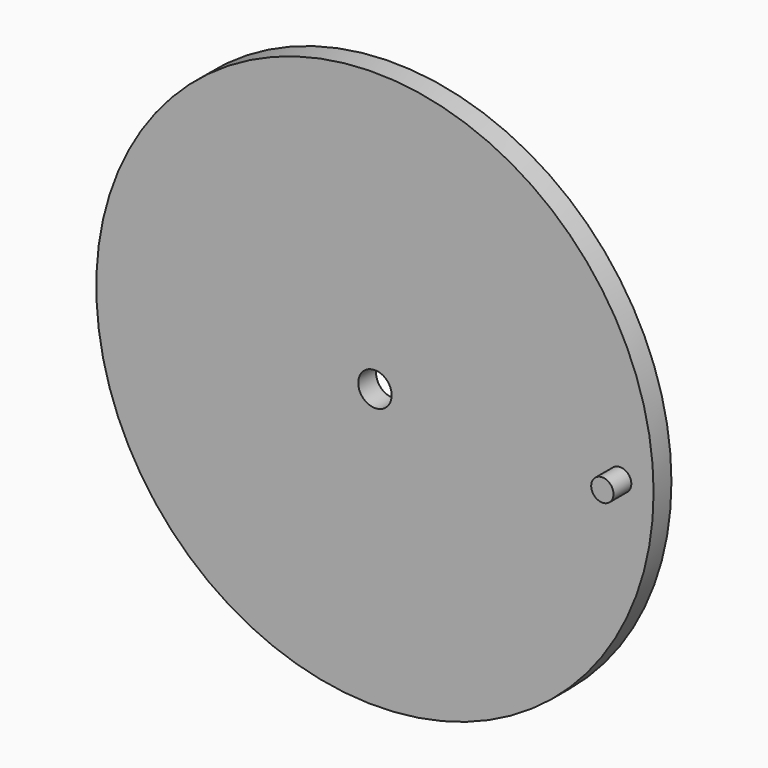
from build123d import *

# Parameters (mm, degrees)
F0_R     = 125
F0_R_2   = 7.5
F1_DEPTH = 10
F2_R     = 5
F3_DEPTH = 10


with BuildPart() as f1:
    # F0 (on Front) → F1 (new body)
    with BuildSketch(Plane.XZ):
        Circle(F0_R)
        Circle(F0_R_2, mode=Mode.SUBTRACT)
    extrude(amount=F1_DEPTH)

    # F2 (on face) → F3 (join)
    with BuildSketch(Plane.XZ.offset(10)):
        with Locations((110, 0)):
            Circle(F2_R)
    extrude(amount=F3_DEPTH)


solid = f1.part
